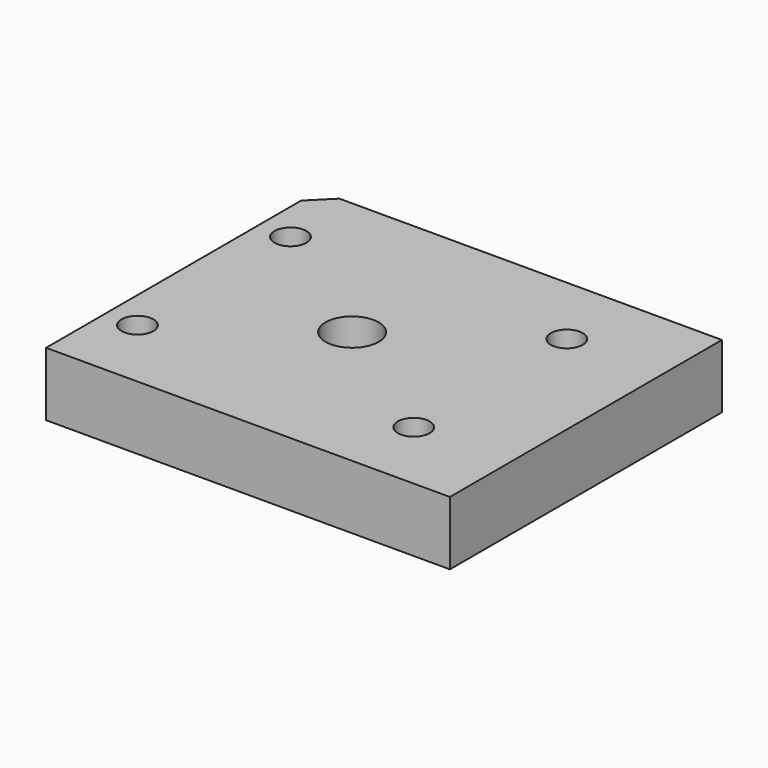
from build123d import *

# Parameters (mm, degrees)
CYLINDER882_R     = 5
CYLINDER882_DEPTH = 3
CYLINDER891_R     = 2.5
CYLINDER891_DEPTH = 20
CYLINDER883_R     = 1.5
CYLINDER883_DEPTH = 20
CYLINDER885_R     = 1.5
CYLINDER885_DEPTH = 20
CYLINDER886_R     = 1.5
CYLINDER886_DEPTH = 20
CYLINDER884_R     = 1.5
CYLINDER884_DEPTH = 20
CYLINDER887_R     = 3
CYLINDER887_DEPTH = 3
CYLINDER888_R     = 3
CYLINDER888_DEPTH = 3
CYLINDER890_R     = 3
CYLINDER890_DEPTH = 3
CYLINDER889_R     = 3
CYLINDER889_DEPTH = 3
BOX422_W          = 38
BOX422_H          = 32
BOX422_DEPTH      = 6
CHAMFER001_SIZE   = 2


with BuildPart() as obj1:
    # Cylinder882 → Cylinder882 (new body)
    with BuildSketch(Plane(origin=(-96, 16, 50), x_dir=(1, 0, 0), z_dir=(0, 0, 1))):
        Circle(CYLINDER882_R)
    extrude(amount=CYLINDER882_DEPTH)


with BuildPart() as obj2:
    # Cylinder891 → Cylinder891 (new body)
    with BuildSketch(Plane(origin=(-96, 16, 50), x_dir=(1, 0, 0), z_dir=(0, 0, 1))):
        Circle(CYLINDER891_R)
    extrude(amount=CYLINDER891_DEPTH)


with BuildPart() as obj3:
    # Cylinder883 → Cylinder883 (new body)
    with BuildSketch(Plane(origin=(-83, 25, 54), x_dir=(1, 0, 0), z_dir=(0, 0, 1))):
        Circle(CYLINDER883_R)
    extrude(amount=CYLINDER883_DEPTH)


with BuildPart() as obj4:
    # Cylinder885 → Cylinder885 (new body)
    with BuildSketch(Plane(origin=(-109, 7, 54), x_dir=(1, 0, 0), z_dir=(0, 0, 1))):
        Circle(CYLINDER885_R)
    extrude(amount=CYLINDER885_DEPTH)


with BuildPart() as obj5:
    # Cylinder886 → Cylinder886 (new body)
    with BuildSketch(Plane(origin=(-109, 25, 54), x_dir=(1, 0, 0), z_dir=(0, 0, 1))):
        Circle(CYLINDER886_R)
    extrude(amount=CYLINDER886_DEPTH)


with BuildPart() as compound491:
    # Cylinder884 → Cylinder884 (new body)
    with BuildSketch(Plane(origin=(-83, 7, 54), x_dir=(1, 0, 0), z_dir=(0, 0, 1))):
        Circle(CYLINDER884_R)
    extrude(amount=CYLINDER884_DEPTH)

    # Compound491: union obj3, obj4, obj5
    add(obj3.part)
    add(obj4.part)
    add(obj5.part)


with BuildPart() as compound491_1:
    # Compound491 placement: moved
    add(compound491.part.moved(Location((0, 0, -4))))


with BuildPart() as obj6:
    # Cylinder887 → Cylinder887 (new body)
    with BuildSketch(Plane(origin=(-83, 25, 54), x_dir=(1, 0, 0), z_dir=(0, 0, 1))):
        Circle(CYLINDER887_R)
    extrude(amount=CYLINDER887_DEPTH)


with BuildPart() as obj7:
    # Cylinder888 → Cylinder888 (new body)
    with BuildSketch(Plane(origin=(-109, 7, 54), x_dir=(1, 0, 0), z_dir=(0, 0, 1))):
        Circle(CYLINDER888_R)
    extrude(amount=CYLINDER888_DEPTH)


with BuildPart() as obj8:
    # Cylinder890 → Cylinder890 (new body)
    with BuildSketch(Plane(origin=(-109, 25, 54), x_dir=(1, 0, 0), z_dir=(0, 0, 1))):
        Circle(CYLINDER890_R)
    extrude(amount=CYLINDER890_DEPTH)


with BuildPart() as compound492:
    # Cylinder889 → Cylinder889 (new body)
    with BuildSketch(Plane(origin=(-83, 7, 54), x_dir=(1, 0, 0), z_dir=(0, 0, 1))):
        Circle(CYLINDER889_R)
    extrude(amount=CYLINDER889_DEPTH)

    # Compound492: union obj6, obj7, obj8
    add(obj6.part)
    add(obj7.part)
    add(obj8.part)


with BuildPart() as compound492_1:
    # Compound492 placement: moved
    add(compound492.part.moved(Location((0, 0, -4))))


with BuildPart() as obj9:
    # Box422 → Box422 (new body)
    with BuildSketch(Plane(origin=(-112, 0, 50), x_dir=(1, 0, 0), z_dir=(0, 0, 1))):
        with Locations((19, 16)):
            Rectangle(BOX422_W, BOX422_H)
    extrude(amount=BOX422_DEPTH)

    # Cut394: cut Compound492
    add(compound492_1.part, mode=Mode.SUBTRACT)

    # Cut395: cut Compound491
    add(compound491_1.part, mode=Mode.SUBTRACT)

    # Cut396: cut obj2
    add(obj2.part, mode=Mode.SUBTRACT)

    # Cut397: cut obj1
    add(obj1.part, mode=Mode.SUBTRACT)

    # Chamfer001
    chamfer001_edges = [obj9.edges().sort_by_distance(p)[0] for p in [
        (-112, 32, 53),
    ]]
    chamfer(chamfer001_edges, length=CHAMFER001_SIZE)


solid = obj9.part
